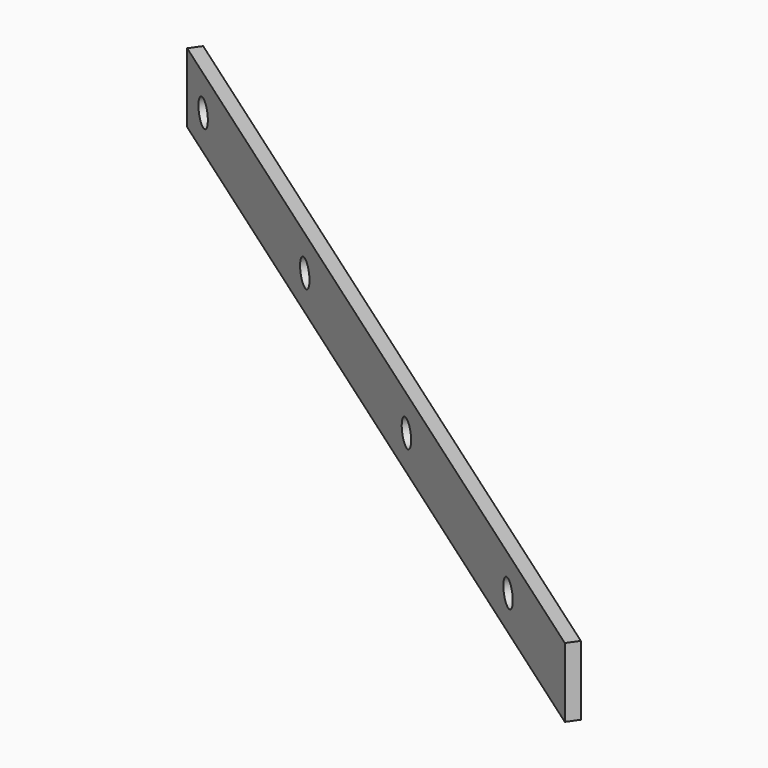
from build123d import *

# Parameters (mm, degrees)
PAD006_DEPTH           = 32
SKETCH014_R            = 6
POCKET004_DEPTH        = 232.94305
LINEARPATTERN002_COUNT = 4
LINEARPATTERN002_PITCH = 130


with BuildPart() as part:
    # Sketch013 → Pad006 (new body)
    with BuildSketch(Plane.XY):
        Polygon((-385.479931, 291.7), (10.181459, 14.654912), (6.74, 9.74), (-388.92139, 286.785088), align=None)
    extrude(amount=PAD006_DEPTH)

    # Sketch014 (on Face3 of Pad006) → Pocket004 (cut, through all)
    with BuildSketch(Plane(origin=(6.793695, 9.702402, 0), x_dir=(0.819152, -0.573576, 0), z_dir=(-0.573576, -0.819152, 0))):
        with Locations((-462.664681, 16)):
            Circle(SKETCH014_R)
    pocket004 = extrude(amount=-POCKET004_DEPTH, mode=Mode.SUBTRACT)

    # LinearPattern002: Pocket004 ×4
    with Locations(*[Vector(0.819152, -0.573576, 0) * (i * LINEARPATTERN002_PITCH) for i in range(1, LINEARPATTERN002_COUNT)]):
        add(pocket004, mode=Mode.SUBTRACT)


with BuildPart() as part_1:
    # Body005 placement: moved
    add(part.part.moved(Location((0, 0, 9))))


solid = part_1.part
